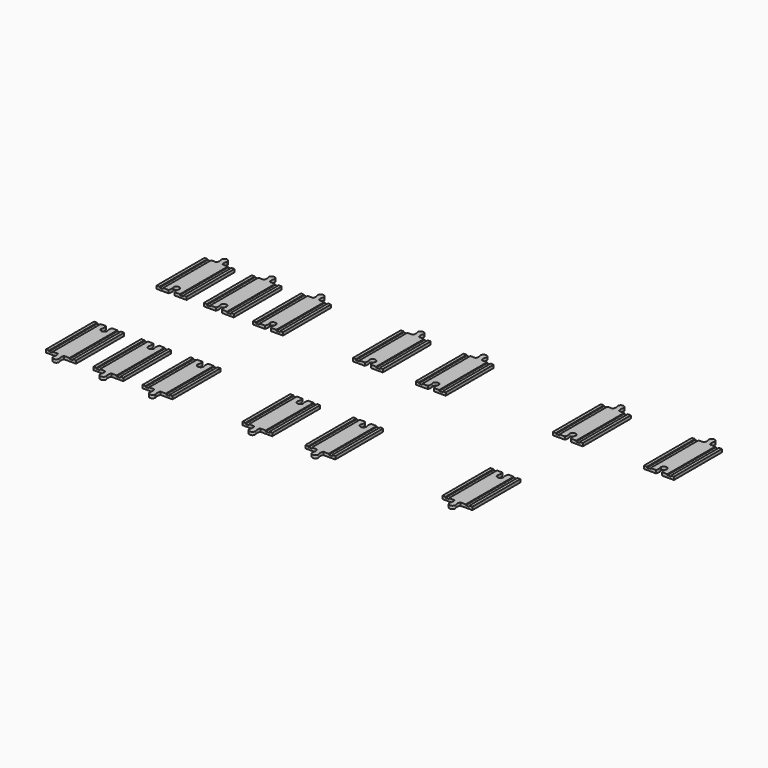
from build123d import *

# Parameters (mm, degrees)
F1_DEPTH = 6.35
F2_W     = 7.62
F2_H     = 127
F3_DEPTH = 1.905


with BuildPart() as f1:
    # F0 (on Top) → F1 (new body)
    with BuildSketch(Plane.XY):
        with BuildLine():
            Line((-19.475365, 90.720635), (-44.875365, 90.720635))
            Line((-44.875365, 90.720635), (-44.875365, -36.279365))
            Line((-44.875365, -36.279365), (-19.475365, -36.279365))
            ThreePointArc((-19.475365, -36.279365), (-18.089429, -29.929365), (-19.475365, -23.579365))
            ThreePointArc((-19.475365, -23.579365), (-13.125365, -17.229365), (-6.775365, -23.579365))
            ThreePointArc((-6.775365, -23.579365), (-8.1613, -29.929365), (-6.775365, -36.279365))
            Line((-6.775365, -36.279365), (18.624635, -36.279365))
            Line((18.624635, -36.279365), (18.624635, 90.720635))
            Line((18.624635, 90.720635), (-6.775365, 90.720635))
            ThreePointArc((-6.775365, 90.720635), (-8.1613, 97.070635), (-6.775365, 103.420635))
            ThreePointArc((-6.775365, 103.420635), (-13.125365, 109.770635), (-19.475365, 103.420635))
            ThreePointArc((-19.475365, 103.420635), (-18.089429, 97.070635), (-19.475365, 90.720635))
        make_face()
        with BuildLine():
            ThreePointArc((93.209089, 103.420635), (86.859089, 109.770635), (80.509089, 103.420635))
            ThreePointArc((80.509089, 103.420635), (81.895025, 97.070635), (80.509089, 90.720635))
            Line((80.509089, 90.720635), (55.109089, 90.720635))
            Line((55.109089, 90.720635), (55.109089, -36.279365))
            Line((55.109089, -36.279365), (80.509089, -36.279365))
            ThreePointArc((80.509089, -36.279365), (81.895025, -29.929365), (80.509089, -23.579365))
            ThreePointArc((80.509089, -23.579365), (86.859089, -17.229365), (93.209089, -23.579365))
            ThreePointArc((93.209089, -23.579365), (91.823154, -29.929365), (93.209089, -36.279365))
            Line((93.209089, -36.279365), (118.609089, -36.279365))
            Line((118.609089, -36.279365), (118.609089, 90.720635))
            Line((118.609089, 90.720635), (93.209089, 90.720635))
            ThreePointArc((93.209089, 90.720635), (91.823154, 97.070635), (93.209089, 103.420635))
        make_face()
        with BuildLine():
            ThreePointArc((184.66997, -23.579365), (191.01997, -17.229365), (197.36997, -23.579365))
            ThreePointArc((197.36997, -23.579365), (195.984034, -29.929365), (197.36997, -36.279365))
            Line((197.36997, -36.279365), (222.76997, -36.279365))
            Line((222.76997, -36.279365), (222.76997, 90.720635))
            Line((222.76997, 90.720635), (197.36997, 90.720635))
            ThreePointArc((197.36997, 90.720635), (195.984034, 97.070635), (197.36997, 103.420635))
            ThreePointArc((197.36997, 103.420635), (191.01997, 109.770635), (184.66997, 103.420635))
            ThreePointArc((184.66997, 103.420635), (186.055906, 97.070635), (184.66997, 90.720635))
            Line((184.66997, 90.720635), (159.26997, 90.720635))
            Line((159.26997, 90.720635), (159.26997, -36.279365))
            Line((159.26997, -36.279365), (184.66997, -36.279365))
            ThreePointArc((184.66997, -36.279365), (186.055906, -29.929365), (184.66997, -23.579365))
        make_face()
        with BuildLine():
            ThreePointArc((396.073245, -23.579365), (402.423245, -17.229365), (408.773245, -23.579365))
            ThreePointArc((408.773245, -23.579365), (407.387309, -29.929365), (408.773245, -36.279365))
            Line((408.773245, -36.279365), (434.173245, -36.279365))
            Line((434.173245, -36.279365), (434.173245, 90.720635))
            Line((434.173245, 90.720635), (408.773245, 90.720635))
            ThreePointArc((408.773245, 90.720635), (407.387309, 97.070635), (408.773245, 103.420635))
            ThreePointArc((408.773245, 103.420635), (402.423245, 109.770635), (396.073245, 103.420635))
            ThreePointArc((396.073245, 103.420635), (397.459181, 97.070635), (396.073245, 90.720635))
            Line((396.073245, 90.720635), (370.673245, 90.720635))
            Line((370.673245, 90.720635), (370.673245, -36.279365))
            Line((370.673245, -36.279365), (396.073245, -36.279365))
            ThreePointArc((396.073245, -36.279365), (397.459181, -29.929365), (396.073245, -23.579365))
        make_face()
        with BuildLine():
            ThreePointArc((542.193569, 90.720635), (540.807633, 97.070635), (542.193569, 103.420635))
            ThreePointArc((542.193569, 103.420635), (535.843569, 109.770635), (529.493569, 103.420635))
            ThreePointArc((529.493569, 103.420635), (530.879504, 97.070635), (529.493569, 90.720635))
            Line((529.493569, 90.720635), (504.093569, 90.720635))
            Line((504.093569, 90.720635), (504.093569, -36.279365))
            Line((504.093569, -36.279365), (529.493569, -36.279365))
            ThreePointArc((529.493569, -36.279365), (530.879504, -29.929365), (529.493569, -23.579365))
            ThreePointArc((529.493569, -23.579365), (535.843569, -17.229365), (542.193569, -23.579365))
            ThreePointArc((542.193569, -23.579365), (540.807633, -29.929365), (542.193569, -36.279365))
            Line((542.193569, -36.279365), (567.593569, -36.279365))
            Line((567.593569, -36.279365), (567.593569, 90.720635))
            Line((567.593569, 90.720635), (542.193569, 90.720635))
        make_face()
        with BuildLine():
            ThreePointArc((-19.475365, -341.495116), (-13.125365, -347.845116), (-6.775365, -341.495116))
            ThreePointArc((-6.775365, -341.495116), (-8.1613, -335.145116), (-6.775365, -328.795116))
            Line((-6.775365, -328.795116), (18.624635, -328.795116))
            Line((18.624635, -328.795116), (18.624635, -201.795116))
            Line((18.624635, -201.795116), (-6.775365, -201.795116))
            ThreePointArc((-6.775365, -201.795116), (-8.1613, -208.145116), (-6.775365, -214.495116))
            ThreePointArc((-6.775365, -214.495116), (-13.125365, -220.845116), (-19.475365, -214.495116))
            ThreePointArc((-19.475365, -214.495116), (-18.089429, -208.145116), (-19.475365, -201.795116))
            Line((-19.475365, -201.795116), (-44.875365, -201.795116))
            Line((-44.875365, -201.795116), (-44.875365, -328.795116))
            Line((-44.875365, -328.795116), (-19.475365, -328.795116))
            ThreePointArc((-19.475365, -328.795116), (-18.089429, -335.145116), (-19.475365, -341.495116))
        make_face()
        with BuildLine():
            ThreePointArc((93.209089, -201.795116), (91.823154, -208.145116), (93.209089, -214.495116))
            ThreePointArc((93.209089, -214.495116), (86.859089, -220.845116), (80.509089, -214.495116))
            ThreePointArc((80.509089, -214.495116), (81.895025, -208.145116), (80.509089, -201.795116))
            Line((80.509089, -201.795116), (55.109089, -201.795116))
            Line((55.109089, -201.795116), (55.109089, -328.795116))
            Line((55.109089, -328.795116), (80.509089, -328.795116))
            ThreePointArc((80.509089, -328.795116), (81.895025, -335.145116), (80.509089, -341.495116))
            ThreePointArc((80.509089, -341.495116), (86.859089, -347.845116), (93.209089, -341.495116))
            ThreePointArc((93.209089, -341.495116), (91.823154, -335.145116), (93.209089, -328.795116))
            Line((93.209089, -328.795116), (118.609089, -328.795116))
            Line((118.609089, -328.795116), (118.609089, -201.795116))
            Line((118.609089, -201.795116), (93.209089, -201.795116))
        make_face()
        with BuildLine():
            ThreePointArc((197.36997, -201.795116), (195.984034, -208.145116), (197.36997, -214.495116))
            ThreePointArc((197.36997, -214.495116), (191.01997, -220.845116), (184.66997, -214.495116))
            ThreePointArc((184.66997, -214.495116), (186.055906, -208.145116), (184.66997, -201.795116))
            Line((184.66997, -201.795116), (159.26997, -201.795116))
            Line((159.26997, -201.795116), (159.26997, -328.795116))
            Line((159.26997, -328.795116), (184.66997, -328.795116))
            ThreePointArc((184.66997, -328.795116), (186.055906, -335.145116), (184.66997, -341.495116))
            ThreePointArc((184.66997, -341.495116), (191.01997, -347.845116), (197.36997, -341.495116))
            ThreePointArc((197.36997, -341.495116), (195.984034, -335.145116), (197.36997, -328.795116))
            Line((197.36997, -328.795116), (222.76997, -328.795116))
            Line((222.76997, -328.795116), (222.76997, -201.795116))
            Line((222.76997, -201.795116), (197.36997, -201.795116))
        make_face()
        with BuildLine():
            ThreePointArc((408.773245, -214.495116), (402.423245, -220.845116), (396.073245, -214.495116))
            ThreePointArc((396.073245, -214.495116), (397.459181, -208.145116), (396.073245, -201.795116))
            Line((396.073245, -201.795116), (370.673245, -201.795116))
            Line((370.673245, -201.795116), (370.673245, -328.795116))
            Line((370.673245, -328.795116), (396.073245, -328.795116))
            ThreePointArc((396.073245, -328.795116), (397.459181, -335.145116), (396.073245, -341.495116))
            ThreePointArc((396.073245, -341.495116), (402.423245, -347.845116), (408.773245, -341.495116))
            ThreePointArc((408.773245, -341.495116), (407.387309, -335.145116), (408.773245, -328.795116))
            Line((408.773245, -328.795116), (434.173245, -328.795116))
            Line((434.173245, -328.795116), (434.173245, -201.795116))
            Line((434.173245, -201.795116), (408.773245, -201.795116))
            ThreePointArc((408.773245, -201.795116), (407.387309, -208.145116), (408.773245, -214.495116))
        make_face()
        with BuildLine():
            ThreePointArc((542.193569, -201.795116), (540.807633, -208.145116), (542.193569, -214.495116))
            ThreePointArc((542.193569, -214.495116), (535.843569, -220.845116), (529.493569, -214.495116))
            ThreePointArc((529.493569, -214.495116), (530.879504, -208.145116), (529.493569, -201.795116))
            Line((529.493569, -201.795116), (504.093569, -201.795116))
            Line((504.093569, -201.795116), (504.093569, -328.795116))
            Line((504.093569, -328.795116), (529.493569, -328.795116))
            ThreePointArc((529.493569, -328.795116), (530.879504, -335.145116), (529.493569, -341.495116))
            ThreePointArc((529.493569, -341.495116), (535.843569, -347.845116), (542.193569, -341.495116))
            ThreePointArc((542.193569, -341.495116), (540.807633, -335.145116), (542.193569, -328.795116))
            Line((542.193569, -328.795116), (567.593569, -328.795116))
            Line((567.593569, -328.795116), (567.593569, -201.795116))
            Line((567.593569, -201.795116), (542.193569, -201.795116))
        make_face()
        with BuildLine():
            ThreePointArc((819.829785, -23.579365), (826.179785, -17.229365), (832.529785, -23.579365))
            ThreePointArc((832.529785, -23.579365), (831.143849, -29.929365), (832.529785, -36.279365))
            Line((832.529785, -36.279365), (857.929785, -36.279365))
            Line((857.929785, -36.279365), (857.929785, 90.720635))
            Line((857.929785, 90.720635), (832.529785, 90.720635))
            ThreePointArc((832.529785, 90.720635), (831.143849, 97.070635), (832.529785, 103.420635))
            ThreePointArc((832.529785, 103.420635), (826.179785, 109.770635), (819.829785, 103.420635))
            ThreePointArc((819.829785, 103.420635), (821.21572, 97.070635), (819.829785, 90.720635))
            Line((819.829785, 90.720635), (794.429785, 90.720635))
            Line((794.429785, 90.720635), (794.429785, -36.279365))
            Line((794.429785, -36.279365), (819.829785, -36.279365))
            ThreePointArc((819.829785, -36.279365), (821.21572, -29.929365), (819.829785, -23.579365))
        make_face()
        with BuildLine():
            ThreePointArc((819.829785, -328.795116), (821.21572, -335.145116), (819.829785, -341.495116))
            ThreePointArc((819.829785, -341.495116), (826.179785, -347.845116), (832.529785, -341.495116))
            ThreePointArc((832.529785, -341.495116), (831.143849, -335.145116), (832.529785, -328.795116))
            Line((832.529785, -328.795116), (857.929785, -328.795116))
            Line((857.929785, -328.795116), (857.929785, -201.795116))
            Line((857.929785, -201.795116), (832.529785, -201.795116))
            ThreePointArc((832.529785, -201.795116), (831.143849, -208.145116), (832.529785, -214.495116))
            ThreePointArc((832.529785, -214.495116), (826.179785, -220.845116), (819.829785, -214.495116))
            ThreePointArc((819.829785, -214.495116), (821.21572, -208.145116), (819.829785, -201.795116))
            Line((819.829785, -201.795116), (794.429785, -201.795116))
            Line((794.429785, -201.795116), (794.429785, -328.795116))
            Line((794.429785, -328.795116), (819.829785, -328.795116))
        make_face()
        with BuildLine():
            ThreePointArc((1012.788771, -23.579365), (1019.138771, -17.229365), (1025.488771, -23.579365))
            ThreePointArc((1025.488771, -23.579365), (1024.102835, -29.929365), (1025.488771, -36.279365))
            Line((1025.488771, -36.279365), (1050.888771, -36.279365))
            Line((1050.888771, -36.279365), (1050.888771, 90.720635))
            Line((1050.888771, 90.720635), (1025.488771, 90.720635))
            ThreePointArc((1025.488771, 90.720635), (1024.102835, 97.070635), (1025.488771, 103.420635))
            ThreePointArc((1025.488771, 103.420635), (1019.138771, 109.770635), (1012.788771, 103.420635))
            ThreePointArc((1012.788771, 103.420635), (1014.174707, 97.070635), (1012.788771, 90.720635))
            Line((1012.788771, 90.720635), (987.388771, 90.720635))
            Line((987.388771, 90.720635), (987.388771, -36.279365))
            Line((987.388771, -36.279365), (1012.788771, -36.279365))
            ThreePointArc((1012.788771, -36.279365), (1014.174707, -29.929365), (1012.788771, -23.579365))
        make_face()
    extrude(amount=F1_DEPTH)

    # F2 (on face) → F3 (cut)
    with BuildSketch(Plane.XY.offset(6.35)):
        with Locations((-34.715365, 27.220635)):
            Rectangle(F2_W, F2_H)
        with Locations((8.464635, 27.220635)):
            Rectangle(F2_W, F2_H)
        with Locations((65.269089, 27.220635)):
            Rectangle(F2_W, F2_H)
        with Locations((108.449089, 27.220635)):
            Rectangle(F2_W, F2_H)
        with Locations((169.42997, 27.220635)):
            Rectangle(F2_W, F2_H)
        with Locations((212.60997, 27.220635)):
            Rectangle(F2_W, F2_H)
        with Locations((380.833245, 27.220635)):
            Rectangle(F2_W, F2_H)
        with Locations((424.013245, 27.220635)):
            Rectangle(F2_W, F2_H)
        with Locations((514.253569, 27.220635)):
            Rectangle(F2_W, F2_H)
        with Locations((557.433569, 27.220635)):
            Rectangle(F2_W, F2_H)
        with Locations((804.589785, 27.220635)):
            Rectangle(F2_W, F2_H)
        with Locations((847.769785, 27.220635)):
            Rectangle(F2_W, F2_H)
        with Locations((424.013245, -265.295116)):
            Rectangle(F2_W, F2_H)
        with Locations((65.269089, -265.295116)):
            Rectangle(F2_W, F2_H)
        with Locations((-34.715365, -265.295116)):
            Rectangle(F2_W, F2_H)
        with Locations((169.42997, -265.295116)):
            Rectangle(F2_W, F2_H)
        with Locations((514.253569, -265.295116)):
            Rectangle(F2_W, F2_H)
        with Locations((847.769785, -265.295116)):
            Rectangle(F2_W, F2_H)
        with Locations((380.833245, -265.295116)):
            Rectangle(F2_W, F2_H)
        with Locations((212.60997, -265.295116)):
            Rectangle(F2_W, F2_H)
        with Locations((804.589785, -265.295116)):
            Rectangle(F2_W, F2_H)
        with Locations((8.464635, -265.295116)):
            Rectangle(F2_W, F2_H)
        with Locations((108.449089, -265.295116)):
            Rectangle(F2_W, F2_H)
        with Locations((557.433569, -265.295116)):
            Rectangle(F2_W, F2_H)
        with Locations((997.548771, 27.220635)):
            Rectangle(F2_W, F2_H)
        with Locations((1040.728771, 27.220635)):
            Rectangle(F2_W, F2_H)
    extrude(amount=-F3_DEPTH, mode=Mode.SUBTRACT)


solid = f1.part
